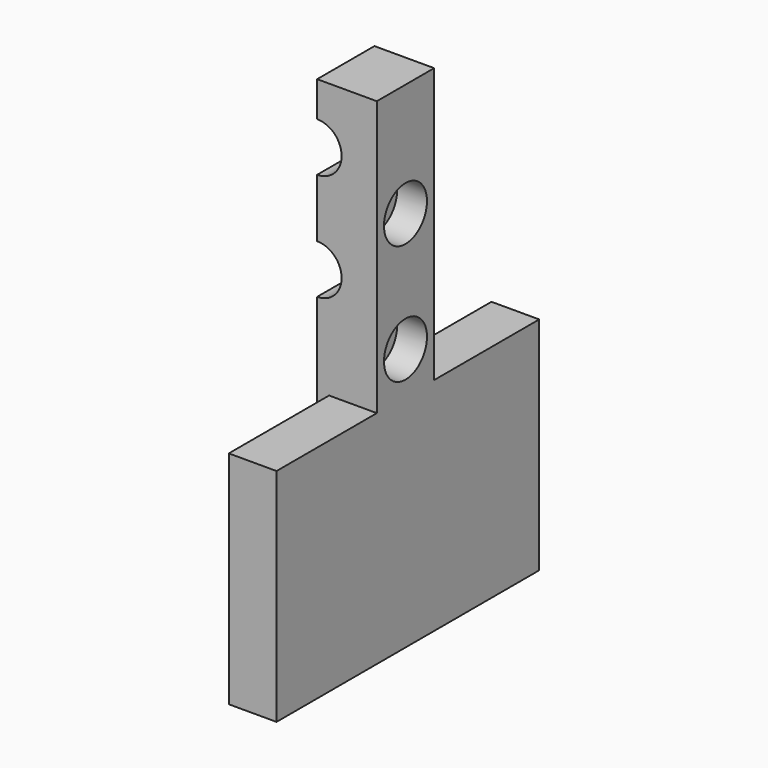
from build123d import *

# Parameters (mm, degrees)
BOX008_W          = 8
BOX008_H          = 55
BOX008_DEPTH      = 37
CYLINDER022_R     = 4.1
CYLINDER022_DEPTH = 12
CYLINDER010_R     = 4.1
CYLINDER010_DEPTH = 12
CYLINDER006_R     = 4.5
CYLINDER006_DEPTH = 5
CYLINDER005_R     = 2.5
CYLINDER005_DEPTH = 5
CYLINDER012_R     = 4.5
CYLINDER012_DEPTH = 5
CYLINDER011_R     = 2.5
CYLINDER011_DEPTH = 5
BOX_W             = 10
BOX_H             = 12
BOX_DEPTH         = 83


with BuildPart() as obj1:
    # Box008 → Box008 (new body)
    with BuildSketch(Plane(origin=(34, -21, 0), x_dir=(1, 0, 0), z_dir=(0, 0, 1))):
        with Locations((4, 27.5)):
            Rectangle(BOX008_W, BOX008_H)
    extrude(amount=BOX008_DEPTH)


with BuildPart() as obj2:
    # Cylinder022 → Cylinder022 (new body)
    with BuildSketch(Plane(origin=(32, 12, 73), x_dir=(1, 0, 0), z_dir=(0, -1, 0))):
        Circle(CYLINDER022_R)
    extrude(amount=CYLINDER022_DEPTH)


with BuildPart() as obj3:
    # Cylinder010 → Cylinder010 (new body)
    with BuildSketch(Plane(origin=(32, 12, 55), x_dir=(1, 0, 0), z_dir=(0, -1, 0))):
        Circle(CYLINDER010_R)
    extrude(amount=CYLINDER010_DEPTH)


with BuildPart() as cylinder006:
    # Cylinder006 → Cylinder006 (new body)
    with BuildSketch(Plane(origin=(37, 5, 55), x_dir=(0, 0, -1), z_dir=(1, 0, 0))):
        Circle(CYLINDER006_R)
    extrude(amount=CYLINDER006_DEPTH)


with BuildPart() as obj4:
    # Cylinder005 → Cylinder005 (new body)
    with BuildSketch(Plane(origin=(32, 5, 55), x_dir=(0, 0, -1), z_dir=(1, 0, 0))):
        Circle(CYLINDER005_R)
    extrude(amount=CYLINDER005_DEPTH)

    # Fusion003: union Cylinder006
    add(cylinder006.part)


with BuildPart() as obj4_1:
    # Fusion003 placement: moved
    add(obj4.part.moved(Location((0, 1, 9))))


with BuildPart() as cylinder012:
    # Cylinder012 → Cylinder012 (new body)
    with BuildSketch(Plane(origin=(37, 5, 55), x_dir=(0, 0, -1), z_dir=(1, 0, 0))):
        Circle(CYLINDER012_R)
    extrude(amount=CYLINDER012_DEPTH)


with BuildPart() as screwholes:
    # Cylinder011 → Cylinder011 (new body)
    with BuildSketch(Plane(origin=(32, 5, 55), x_dir=(0, 0, -1), z_dir=(1, 0, 0))):
        Circle(CYLINDER011_R)
    extrude(amount=CYLINDER011_DEPTH)

    # Fusion004: union Cylinder012
    add(cylinder012.part)


with BuildPart() as screwholes_1:
    # Fusion004 placement: moved
    add(screwholes.part.moved(Location((0, 1, -11))))

    # Fusion005: union obj4
    add(obj4_1.part)


with BuildPart() as obj5:
    # Box → Box (new body)
    with BuildSketch(Plane(origin=(32, 0, 0), x_dir=(1, 0, 0), z_dir=(0, 0, 1))):
        with Locations((5, 6)):
            Rectangle(BOX_W, BOX_H)
    extrude(amount=BOX_DEPTH)

    # Cut: cut ScrewHoles
    add(screwholes_1.part, mode=Mode.SUBTRACT)

    # Cut007: cut obj3
    add(obj3.part, mode=Mode.SUBTRACT)

    # Cut008: cut obj2
    add(obj2.part, mode=Mode.SUBTRACT)

    # Fusion011: union obj1
    add(obj1.part)


solid = obj5.part
